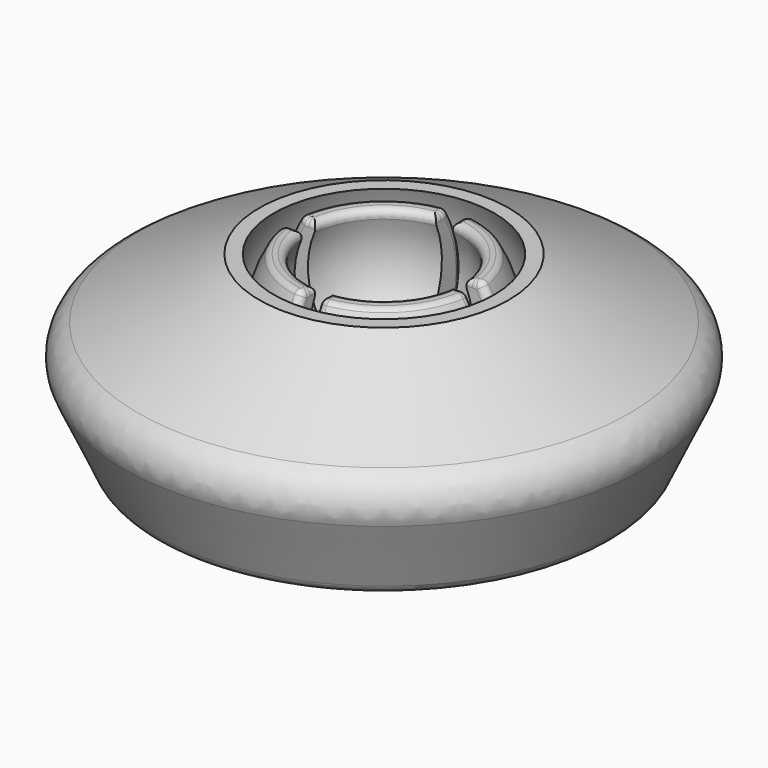
from build123d import *

# Parameters (mm, degrees)
CYLINDER_R              = 10
CYLINDER_DEPTH          = 6
CYLINDER002_R           = 6.5
CYLINDER002_DEPTH       = 1
CYLINDER002_ROLL_ANGLE  = 90
CYLINDER001_R           = 6.5
CYLINDER001_DEPTH       = 1
CYLINDER001_PITCH_ANGLE = 90
FILLET_R                = 0.4
FILLET001_R             = 0.4
FILLET008_R             = 0.4
FILLET009_R             = 2
FILLET010_R             = 1


with BuildPart() as sphere001:
    # Sphere001 → Sphere001 (revolve)
    with BuildSketch(Plane(origin=(0, 0, 8), x_dir=(1, 0, 0), z_dir=(0, -1, 0))):
        with BuildLine():
            ThreePointArc((0, -5), (5, 0), (0, 5))
            Line((0, 5), (0, -5))
        make_face()
    revolve(axis=Axis((0, 0, 8), (0, 0, 1)))


with BuildPart() as cylinder:
    # Cylinder → Cylinder (new body)
    with BuildSketch(Plane.XY.offset(-1)):
        Circle(CYLINDER_R)
    extrude(amount=CYLINDER_DEPTH)


with BuildPart() as cylinder002:
    # Cylinder002 → Cylinder002 (new body)
    with BuildSketch(Plane.XY):
        Circle(CYLINDER002_R)
    extrude(amount=CYLINDER002_DEPTH)


with BuildPart() as cylinder002_1:
    # Cylinder002 roll: moved
    add(cylinder002.part.rotate(Axis((0, 0, 0), (1, 0, 0)), CYLINDER002_ROLL_ANGLE))


with BuildPart() as cylinder002_2:
    # Cylinder002 placement: moved
    add(cylinder002_1.part.moved(Location((0, 0.5, 7))))


with BuildPart() as sphere004:
    # Sphere004 → Sphere004 (revolve)
    with BuildSketch(Plane(origin=(0, 0, 7), x_dir=(1, 0, 0), z_dir=(0, -1, 0))):
        with BuildLine():
            ThreePointArc((0, -6.5), (6.5, 0), (0, 6.5))
            Line((0, 6.5), (0, -6.5))
        make_face()
    revolve(axis=Axis((0, 0, 7), (0, 0, 1)))


with BuildPart() as cut001:
    # Sphere002 → Sphere002 (revolve)
    with BuildSketch(Plane(origin=(0, 0, 7), x_dir=(1, 0, 0), z_dir=(0, -1, 0))):
        with BuildLine():
            ThreePointArc((0, -7.5), (7.5, 0), (0, 7.5))
            Line((0, 7.5), (0, -7.5))
        make_face()
    revolve(axis=Axis((0, 0, 7), (0, 0, 1)))

    # Cut001: cut Sphere004
    add(sphere004.part, mode=Mode.SUBTRACT)


with BuildPart() as fusion003:
    # Cylinder001 → Cylinder001 (new body)
    with BuildSketch(Plane.XY):
        Circle(CYLINDER001_R)
    extrude(amount=CYLINDER001_DEPTH)


with BuildPart() as fusion003_1:
    # Cylinder001 pitch: moved
    add(fusion003.part.rotate(Axis((0, 0, 0), (0, 1, 0)), CYLINDER001_PITCH_ANGLE))


with BuildPart() as fusion003_2:
    # Cylinder001 placement: moved
    add(fusion003_1.part.moved(Location((-0.5, 0, 7))))

    # Fusion002: union Cylinder002, Cut001
    add(cylinder002_2.part)
    add(cut001.part)

    # Cut: cut Cylinder
    add(cylinder.part, mode=Mode.SUBTRACT)

    # Fillet
    fillet_edges = [fusion003_2.edges().sort_by_distance(p)[0] for p in [
        (-7.228416, 0, 5),
        (4.373214, 4.373214, 5),
        (0.5, 3.332207, 5),
        (3.332207, 0.5, 5),
        (3.332207, -0.5, 5),
        (0.5, -3.332207, 5),
        (4.373214, -4.373214, 5),
        (-3.332207, -0.5, 5),
        (-4.373214, -4.373214, 5),
        (-0.5, -3.332207, 5),
        (-0.5, 3.332207, 5),
        (-4.373214, 4.373214, 5),
        (-3.332207, 0.5, 5),
    ]]
    fillet(fillet_edges, radius=FILLET_R)

    # Fillet001
    fillet001_edges = [fusion003_2.edges().sort_by_distance(p)[0] for p in [
        (-0.5, -5.23882, 10.815071),
        (0.5, -5.23882, 10.815071),
        (5.23882, -0.5, 10.815071),
        (5.23882, 0.5, 10.815071),
        (0.5, 5.23882, 10.815071),
        (-0.5, 5.23882, 10.815071),
        (-5.23882, 0.5, 10.815071),
        (-5.23882, -0.5, 10.815071),
    ]]
    fillet(fillet001_edges, radius=FILLET001_R)

    # Fusion003: union Sphere001
    add(sphere001.part)


with BuildPart() as fusion003_3:
    # Fusion003 placement: moved
    add(fusion003_2.part.moved(Location((0, 0, 0.5))))


with BuildPart() as cone2:
    # Cone003 → Cone003 (revolve)
    with BuildSketch(Plane(origin=(0, 0, 6.5), x_dir=(1, 0, 0), z_dir=(0, -1, 0))):
        Polygon((0, 0), (16.5, 0), (7.5, 4.5), (0, 4.5), align=None)
    revolve(axis=Axis((0, 0, 6.5), (0, 0, 1)))


with BuildPart() as foot:
    # Cone002 → Cone002 (revolve)
    with BuildSketch(Plane.XZ):
        Polygon((0, 0), (13.5, 0), (16.5, 6.5), (0, 6.5), align=None)
    revolve(axis=Axis((0, 0, 0), (0, 0, 1)))

    # Fusion001: union Cone2
    add(cone2.part)

    # Cut002: cut Fusion003
    add(fusion003_3.part, mode=Mode.SUBTRACT)

    # Fillet008
    fillet008_edges = [foot.edges().sort_by_distance(p)[0] for p in [
        (-3.061862, 3.061862, 11),
        (-4.607714, 0.5, 11),
        (-5.263516, 0.622124, 11),
        (-3.872983, 3.872983, 11),
        (-0.622124, 5.263516, 11),
        (-0.5, 4.607714, 11),
        (3.061862, 3.061862, 11),
        (0.5, 4.607714, 11),
        (0.622124, 5.263516, 11),
        (3.872983, 3.872983, 11),
        (5.263516, 0.622124, 11),
        (4.607714, 0.5, 11),
        (4.607714, -0.5, 11),
        (5.263516, -0.622124, 11),
        (3.872983, -3.872983, 11),
        (0.622124, -5.263516, 11),
        (0.5, -4.607714, 11),
        (3.061862, -3.061862, 11),
        (-5.263516, -0.622124, 11),
        (-4.607714, -0.5, 11),
        (-3.061862, -3.061862, 11),
        (-0.5, -4.607714, 11),
        (-0.622124, -5.263516, 11),
        (-3.872983, -3.872983, 11),
    ]]
    fillet(fillet008_edges, radius=FILLET008_R)

    # Fillet009
    fillet009_edges = [foot.edges().sort_by_distance(p)[0] for p in [
        (-16.5, 0, 6.5),
    ]]
    fillet(fillet009_edges, radius=FILLET009_R)

    # Fillet010
    fillet010_edges = [foot.edges().sort_by_distance(p)[0] for p in [
        (-13.5, 0, 0),
    ]]
    fillet(fillet010_edges, radius=FILLET010_R)


solid = foot.part
